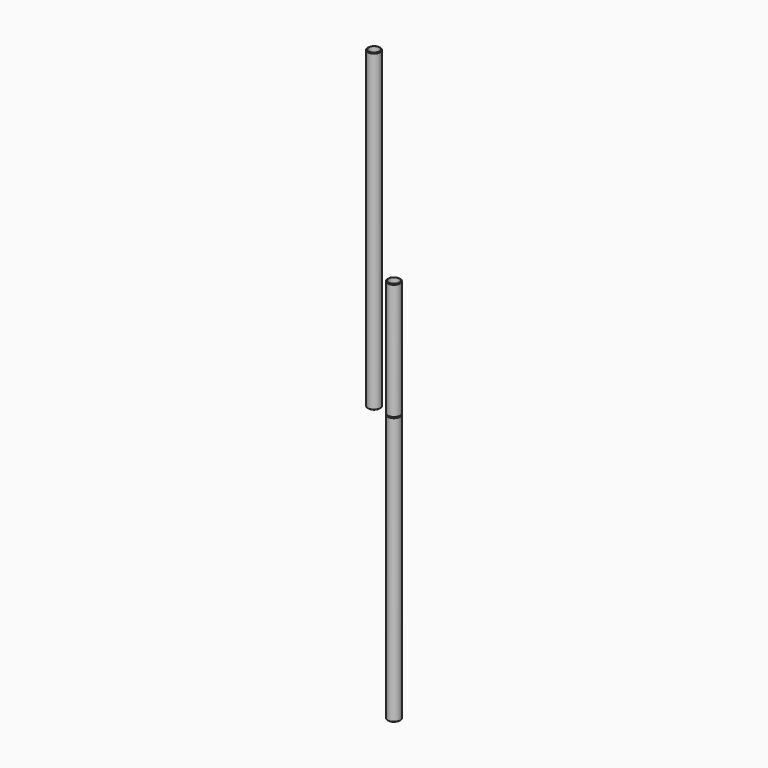
from build123d import *

# Parameters (mm, degrees)
F2_R     = 57.15
F2_R_2   = 50.1777
F2_R_3   = 48.5902
F5_SIZE2 = 6.9723
F5_SIZE  = 5.52958
F6_SIZE2 = 6.9723
F6_SIZE  = 5.52958
F7_R     = 57.15
F7_R_2   = 48.5902
F8_DEPTH = 2857.5
F9_SIZE2 = 6.985
F9_SIZE  = 5.5372


with BuildPart() as f1:
    # F0 (on Front) → F1 (revolve)
    with BuildSketch(Plane.XZ):
        Polygon((50.1777, 0), (57.15, 5.3500339583), (57.15, 1061.4499660417), (50.1777, 1066.8), (48.5902, 1066.8), (48.5902, 0), align=None)
    revolve(axis=Axis((0, 0, 533.4), (0, 0, 1)))


with BuildPart() as f4:
    # F4: sweep along a path in F3
    with BuildLine(Plane.XZ) as f4_path:
        Line((0, 0), (0, -2438.4))
    # F2 (on Top) → F4 (sweep)
    with BuildSketch(Plane.XY):
        Circle(F2_R)
        Circle(F2_R_2, mode=Mode.SUBTRACT)
        Circle(F2_R_2)
        Circle(F2_R_3, mode=Mode.SUBTRACT)
    sweep(path=f4_path.line)

    # F5
    f5_edges = [f4.edges().sort_by_distance(p)[0] for p in [
        (-57.15, 0, -2438.4),
    ]]
    f5_side = f4.faces().sort_by_distance((-57.15, 0, -1219.2))[0]
    chamfer(f5_edges, length=F5_SIZE, length2=F5_SIZE2, reference=f5_side)

    # F6
    f6_edges = [f4.edges().sort_by_distance(p)[0] for p in [
        (-57.15, 0, 0),
    ]]
    f6_side = f4.faces().sort_by_distance((-57.15, 0, -1216.43521))[0]
    chamfer(f6_edges, length=F6_SIZE, length2=F6_SIZE2, reference=f6_side)


with BuildPart() as f8:
    # F7 (on Top) → F8 (new body)
    with BuildSketch(Plane.XY):
        with Locations((-180.8533519506, 0)):
            Circle(F7_R)
        with Locations((-180.8533519506, 0)):
            Circle(F7_R_2, mode=Mode.SUBTRACT)
    extrude(amount=F8_DEPTH)

    # F9
    f9_edges = [f8.edges().sort_by_distance(p)[0] for p in [
        (-238.003352, 0, 0),
        (-238.003352, 0, 2857.5),
    ]]
    f9_side = f8.faces().sort_by_distance((-238.003352, 0, 1428.75))[0]
    chamfer(f9_edges, length=F9_SIZE, length2=F9_SIZE2, reference=f9_side)


solid = Compound([f1.part, f4.part, f8.part])
